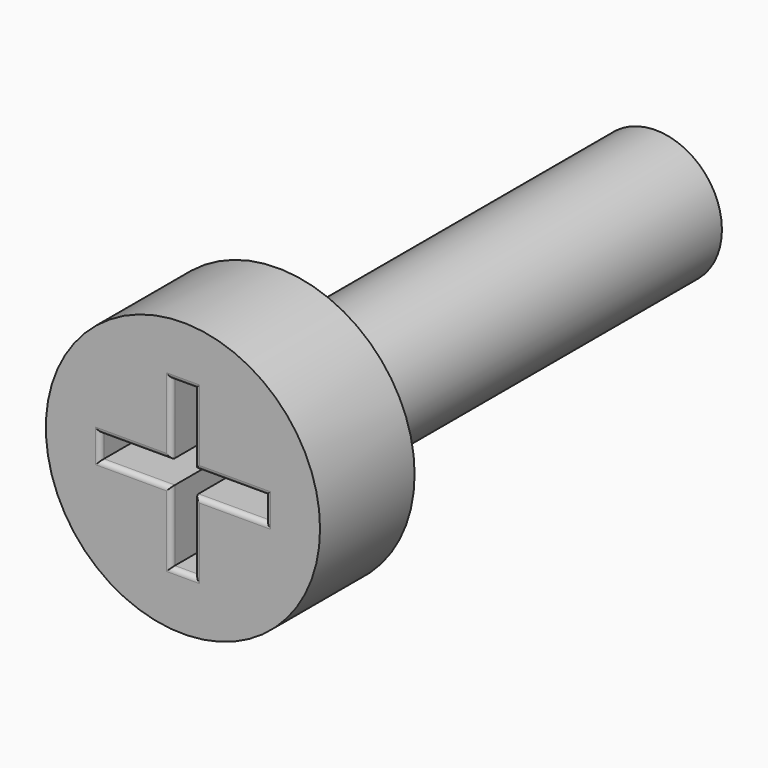
from build123d import *

# Parameters (mm, degrees)
F0_R     = 1.4
F1_DEPTH = 10
F3_R     = 2.9
F4_DEPTH = 2.5
F3_W     = 0.5
F3_H     = 0.5
F3_W_2   = 1.5
F3_H_2   = 1.5
F5_DEPTH = 0.5
F6_R     = 0.1


with BuildPart() as f1:
    # F0 (on Front) → F1 (new body)
    with BuildSketch(Plane.XZ):
        Circle(F0_R)
    extrude(amount=F1_DEPTH)

    # F3 (on offset) → F4 (join)
    with BuildSketch(Plane.XZ.offset(10)):
        Circle(F3_R)
        Polygon((0.25, -0.25), (0.25, -1.75), (-0.25, -1.75), (-0.25, -0.25), (-1.75, -0.25), (-1.75, 0.25), (-0.25, 0.25), (-0.25, 1.75), (0.25, 1.75), (0.25, 0.25), (1.75, 0.25), (1.75, -0.25), align=None, mode=Mode.SUBTRACT)
    extrude(amount=F4_DEPTH)

    # F3 (on offset) → F5 (join)
    with BuildSketch(Plane.XZ.offset(10)):
        Rectangle(F3_W, F3_H)
        with Locations((-1, 0)):
            Rectangle(F3_W_2, F3_H)
        with Locations((0, -1)):
            Rectangle(F3_W, F3_H_2)
        with Locations((1, 0)):
            Rectangle(F3_W_2, F3_H)
        with Locations((0, 1)):
            Rectangle(F3_W, F3_H_2)
    extrude(amount=F5_DEPTH)

    # F6
    f6_edges = [f1.edges().sort_by_distance(p)[0] for p in [
        (-0.25, -12.5, 1),
        (-1, -12.5, 0.25),
        (-1, -12.5, -0.25),
        (-0.25, -12.5, -1),
        (-1.75, -12.5, 0),
        (0.25, -12.5, -1),
        (0, -12.5, -1.75),
        (1, -12.5, -0.25),
        (1.75, -12.5, 0),
        (0.25, -12.5, 1),
        (0, -12.5, 1.75),
        (1, -12.5, 0.25),
    ]]
    fillet(f6_edges, radius=F6_R)


solid = f1.part
